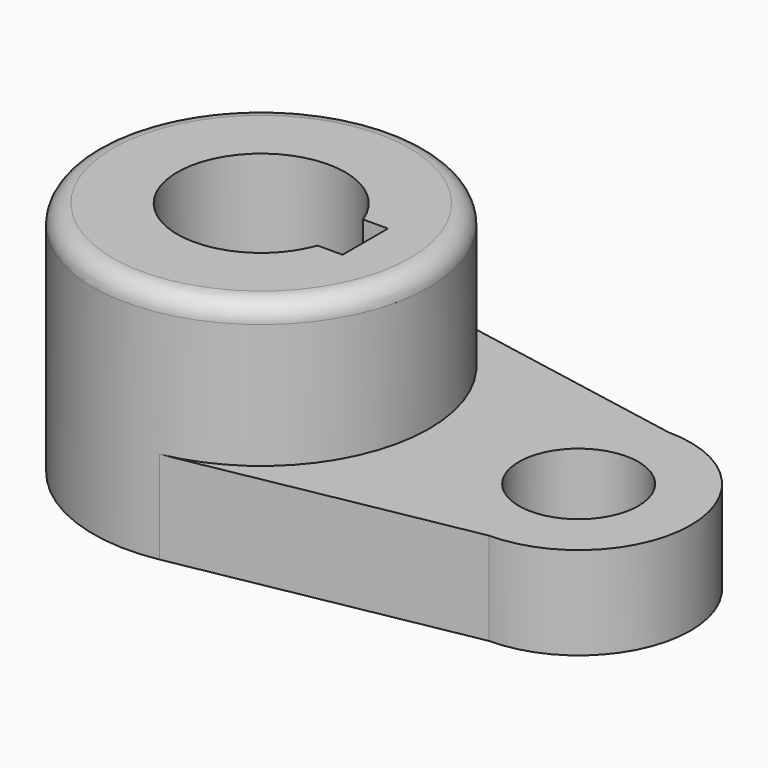
from build123d import *

# Parameters (mm, degrees)
F0_R     = 10.16
F1_DEPTH = 15.7734
F3_DEPTH = 40.2336
F4_R     = 3.302


with BuildPart() as f1:
    # F0 (on Top) → F1 (new body)
    with BuildSketch(Plane.XY):
        with BuildLine():
            ThreePointArc((5.2118165849, 28.0956863751), (21.9710978778, 18.270234893), (28.575, 0))
            ThreePointArc((28.575, 0), (21.9710977085, -18.2702350965), (5.2118160642, -28.0956864716))
            Line((5.2118160642, -28.0956864716), (53.975, -19.05))
            ThreePointArc((53.975, -19.05), (34.925, 0), (53.975, 19.05))
            Line((53.975, 19.05), (5.2118165849, 28.0956863751))
        make_face()
        with BuildLine():
            ThreePointArc((73.025, 0), (67.4453841816, 13.4703841816), (53.975, 19.05))
            ThreePointArc((53.975, 19.05), (34.925, 0), (53.975, -19.05))
            ThreePointArc((53.975, -19.05), (67.4453841816, -13.4703841816), (73.025, 0))
        make_face()
        with Locations((53.975, 0)):
            Circle(F0_R, mode=Mode.SUBTRACT)
    extrude(amount=F1_DEPTH)

    # F2 (on face) → F3 (join)
    with BuildSketch(Plane.XY):
        with BuildLine():
            ThreePointArc((5.2118165849, 28.0956863751), (-28.575, 2.648e-07), (5.2118160642, -28.0956864716))
            ThreePointArc((5.2118160642, -28.0956864716), (21.9710977085, -18.2702350965), (28.575, 0))
            ThreePointArc((28.575, 0), (21.9710978778, 18.270234893), (5.2118165849, 28.0956863751))
        make_face()
        with BuildLine():
            Line((17.6895648793, -4.826), (13.4477648793, -4.826))
            ThreePointArc((13.4477648793, -4.826), (-14.2875, 0), (13.4477648793, 4.826))
            Line((13.4477648793, 4.826), (17.6895648793, 4.826))
            Line((17.6895648793, 4.826), (17.6895648793, -4.826))
        make_face(mode=Mode.SUBTRACT)
    extrude(amount=F3_DEPTH)

    # F4
    f4_edges = [f1.edges().sort_by_distance(p)[0] for p in [
        (-5.211816, 28.095686, 40.2336),
    ]]
    fillet(f4_edges, radius=F4_R)


solid = f1.part
